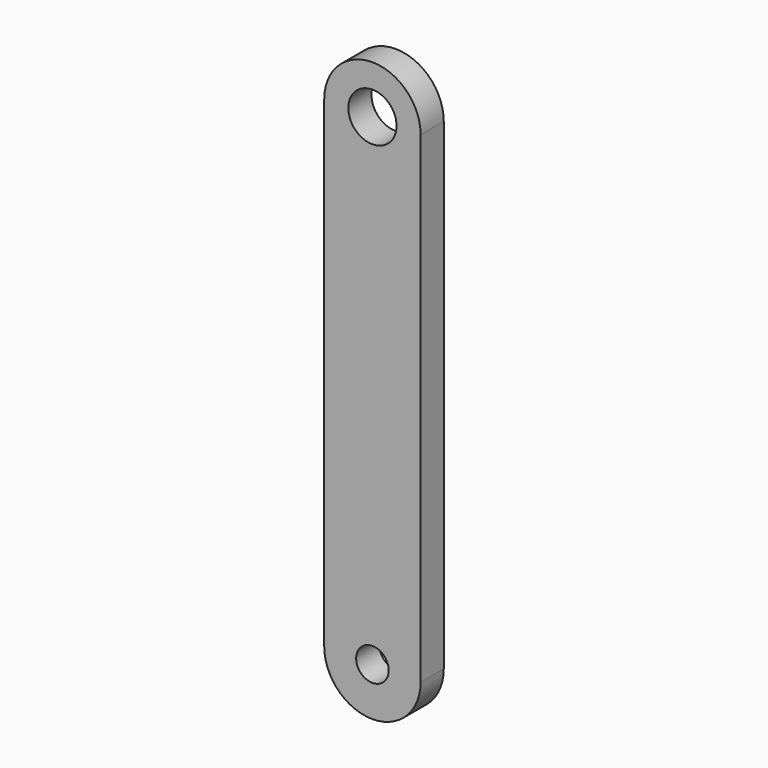
from build123d import *

# Parameters (mm, degrees)
F0_R     = 1.6891
F0_R_2   = 2.5
F1_DEPTH = 3


with BuildPart() as f1:
    # F0 (on Front) → F1 (new body)
    with BuildSketch(Plane.XZ):
        with BuildLine():
            ThreePointArc((-5, -25), (0, -30), (5, -25))
            Line((5, -25), (5, 25))
            ThreePointArc((5, 25), (0, 30), (-5, 25))
            Line((-5, 25), (-5, -25))
        make_face()
        with Locations((0, -25)):
            Circle(F0_R, mode=Mode.SUBTRACT)
        with Locations((0, 25)):
            Circle(F0_R_2, mode=Mode.SUBTRACT)
    extrude(amount=F1_DEPTH)


solid = f1.part
